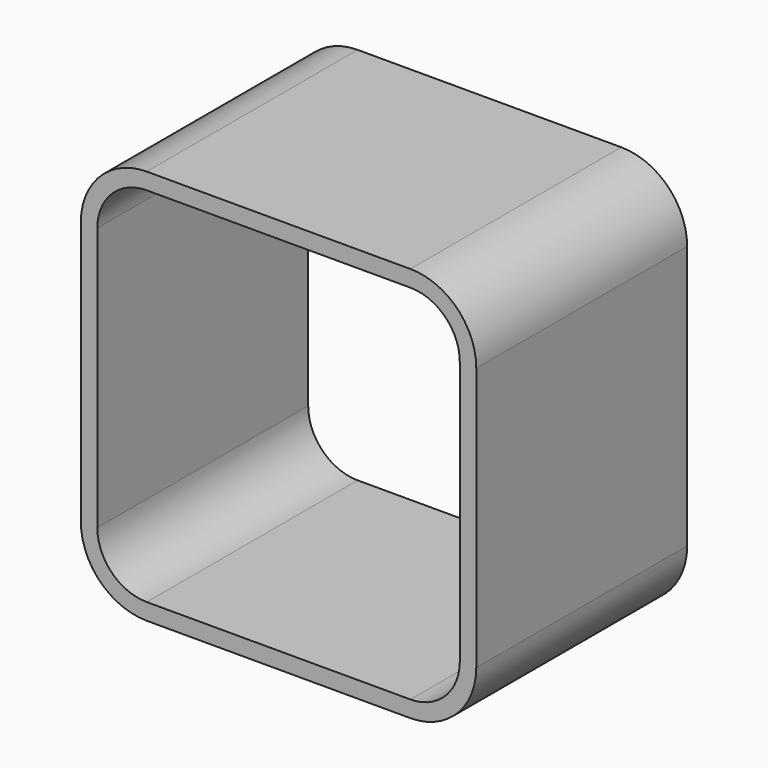
from build123d import *

# Parameters (mm, degrees)
F1_DEPTH = 25.4


with BuildPart() as f1:
    # F0 (on Front) → F1 (new body)
    with BuildSketch(Plane.XZ):
        with BuildLine():
            Line((-12.7, -19.05), (12.7, -19.05))
            ThreePointArc((12.7, -19.05), (17.190128, -17.190128), (19.05, -12.7))
            Line((19.05, -12.7), (19.05, 12.7))
            ThreePointArc((19.05, 12.7), (17.190128, 17.190128), (12.7, 19.05))
            Line((12.7, 19.05), (-12.7, 19.05))
            ThreePointArc((-12.7, 19.05), (-17.190128, 17.190128), (-19.05, 12.7))
            Line((-19.05, 12.7), (-19.05, -12.7))
            ThreePointArc((-19.05, -12.7), (-17.190128, -17.190128), (-12.7, -19.05))
        make_face()
        with BuildLine():
            Line((-12.7, 17.4625), (12.7, 17.4625))
            ThreePointArc((12.7, 17.4625), (16.067596, 16.067596), (17.4625, 12.7))
            Line((17.4625, 12.7), (17.4625, -12.7))
            ThreePointArc((17.4625, -12.7), (16.067596, -16.067596), (12.7, -17.4625))
            Line((12.7, -17.4625), (-12.7, -17.4625))
            ThreePointArc((-12.7, -17.4625), (-16.067596, -16.067596), (-17.4625, -12.7))
            Line((-17.4625, -12.7), (-17.4625, 12.7))
            ThreePointArc((-17.4625, 12.7), (-16.067596, 16.067596), (-12.7, 17.4625))
        make_face(mode=Mode.SUBTRACT)
    extrude(amount=F1_DEPTH)


solid = f1.part
